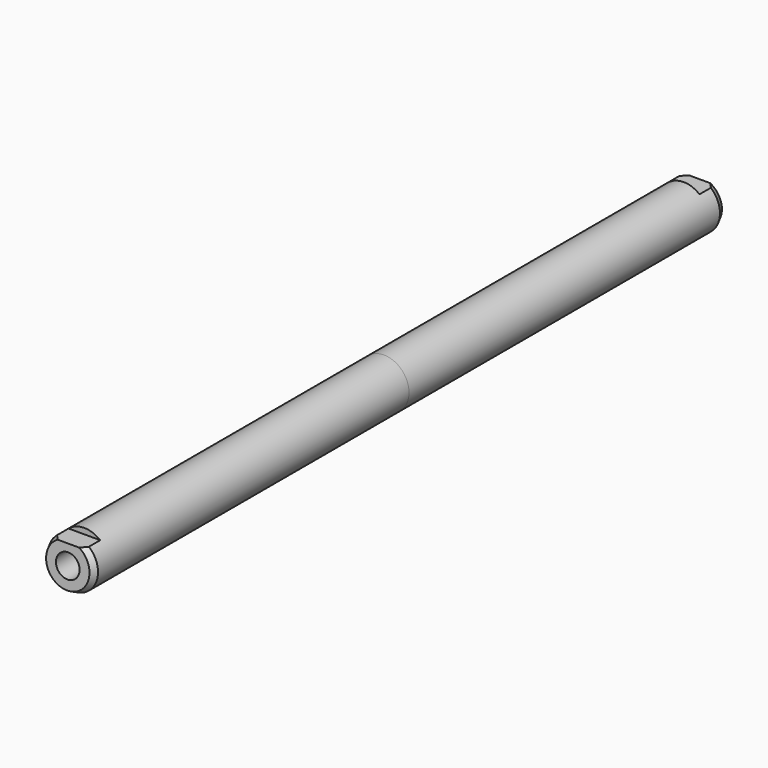
from build123d import *

# Parameters (mm, degrees)
F0_R          = 13.25
F1_DEPTH      = 210
F3_DEPTH      = 11.5
F4_R          = 6.25
F5_DEPTH      = 210.001
F9_DEPTH      = 13.251
F9_DEPTH_BACK = 13.251


with BuildPart() as f1:
    # F0 (on Front) → F1 (new body)
    with BuildSketch(Plane.XZ):
        Circle(F0_R)
    extrude(amount=F1_DEPTH)

    # F2 (on face) → F3 (cut)
    with BuildSketch(Plane.XZ.offset(210)):
        with BuildLine():
            ThreePointArc((8.3964278119, 10.25), (0, 13.25), (-8.3964278119, 10.25))
            Line((-8.3964278119, 10.25), (8.3964278119, 10.25))
        make_face()
    extrude(amount=-F3_DEPTH, mode=Mode.SUBTRACT)

    # F4 (on face) → F5 (cut, through all)
    with BuildSketch(Plane.XZ.offset(210)):
        Circle(F4_R)
    extrude(amount=-F5_DEPTH, mode=Mode.SUBTRACT)

    # F6 (on Right) → F7 (revolve, cut)
    with BuildSketch(Plane.YZ):
        Polygon((-210, -15.6165892258), (-206, -13.25), (-210, -11.25), align=None)
    revolve(axis=Axis((0, -105, 0), (0, -1, 0)), mode=Mode.SUBTRACT)

    # F8 (on Right) → F9 (cut, two sides)
    with BuildSketch(Plane.YZ) as f9_sk:
        Polygon((-209.0051316588, 13.25), (-210, 13.25), (-210, -13.25), align=None)
    extrude(amount=-F9_DEPTH, mode=Mode.SUBTRACT)
    extrude(f9_sk.sketch, amount=F9_DEPTH_BACK, mode=Mode.SUBTRACT)

    # F10: F1 across plane


with BuildPart() as f1_1:
    add(f1.part)
    add(f1.part.mirror(Plane.XZ))


solid = f1_1.part
